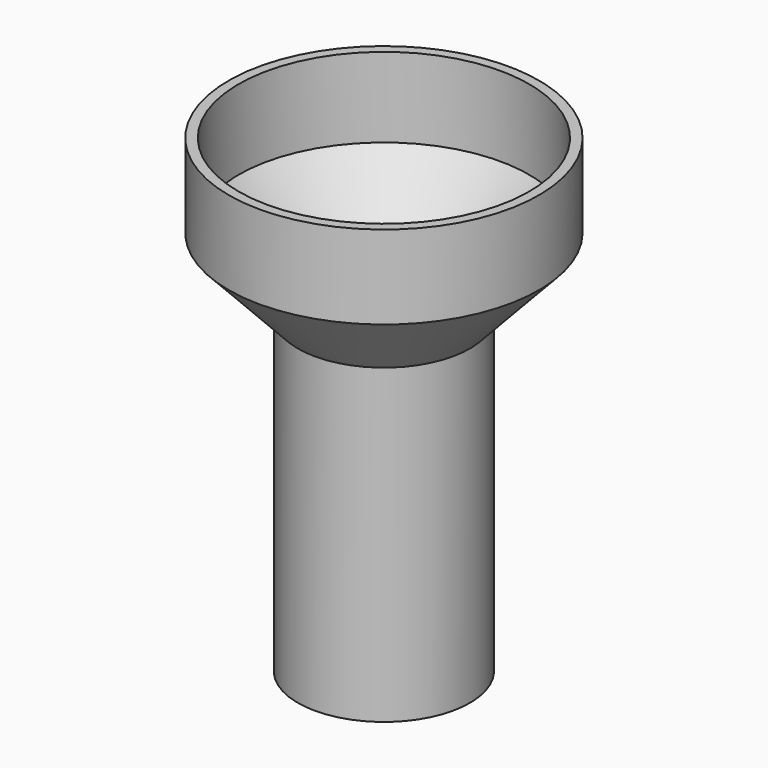
from build123d import *

# Parameters (mm, degrees)
F2_T = -2.5


with BuildPart() as f1:
    # F0 (on Right) → F1 (revolve)
    with BuildSketch(Plane.YZ):
        Polygon((-21.9740401953, -59.7611889243), (0, -59.7611889243), (0, 60.1719170809), (-39.6354235709, 60.1719170809), (-39.6354235709, 38.8139672577), (-21.9740401953, 19.9203956872), align=None)
    revolve(axis=Axis((0, 0, 0.2053640783), (0, 0, -1)))

    # F2
    f2_openings = [f1.faces().sort_by_distance(p)[0] for p in [
        (0, 0, 60.171917),
    ]]
    offset(amount=F2_T, openings=f2_openings, kind=Kind.INTERSECTION)


solid = f1.part
